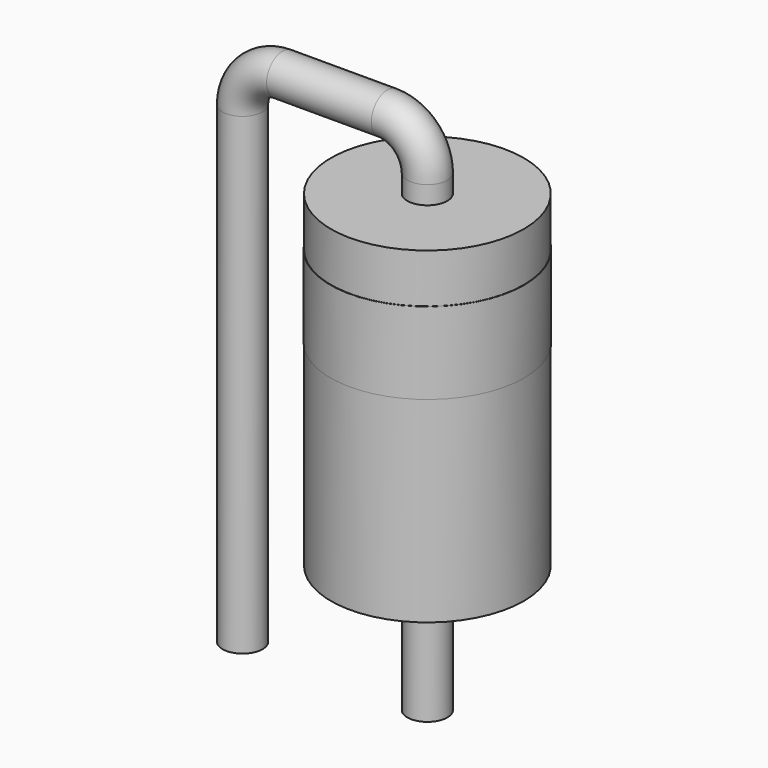
from build123d import *

# Parameters (mm, degrees)
SKETCH002_W = 2.65
SKETCH002_H = 9
SKETCH001_R = 0.55
SKETCH003_W = 2.66
SKETCH003_H = 2.25


with BuildPart() as revolution:
    # Sketch002 → Revolution (revolve)
    with BuildSketch(Plane.XZ):
        with Locations((6.405, 5)):
            Rectangle(SKETCH002_W, SKETCH002_H)
    revolve(axis=Axis((5.08, 0, 0.5), (0, 0, 1)))


with BuildPart() as sweep_body:
    # Sweep: sweep along a path in Sketch
    with BuildLine(Plane.XZ) as sweep_path:
        Line((0, -3), (0, 10))
        ThreePointArc((0, 10), (0.322183, 10.777817), (1.1, 11.1))
        Line((1.1, 11.1), (3.98, 11.1))
        ThreePointArc((3.98, 11.1), (4.757817, 10.777817), (5.08, 10))
        Line((5.08, 10), (5.08, -3))
    # Sketch001 → Sweep (sweep)
    with BuildSketch(Plane.XY):
        Circle(SKETCH001_R)
    sweep(path=sweep_path.line)


with BuildPart() as obj1:
    # Sketch003 → Revolution001 (revolve)
    with BuildSketch(Plane.XZ):
        with Locations((6.41, 7.025)):
            Rectangle(SKETCH003_W, SKETCH003_H)
    revolve(axis=Axis((5.08, 0, 5.9), (0, 0, 1)))

    add(revolution.part)
    add(sweep_body.part)


solid = obj1.part
